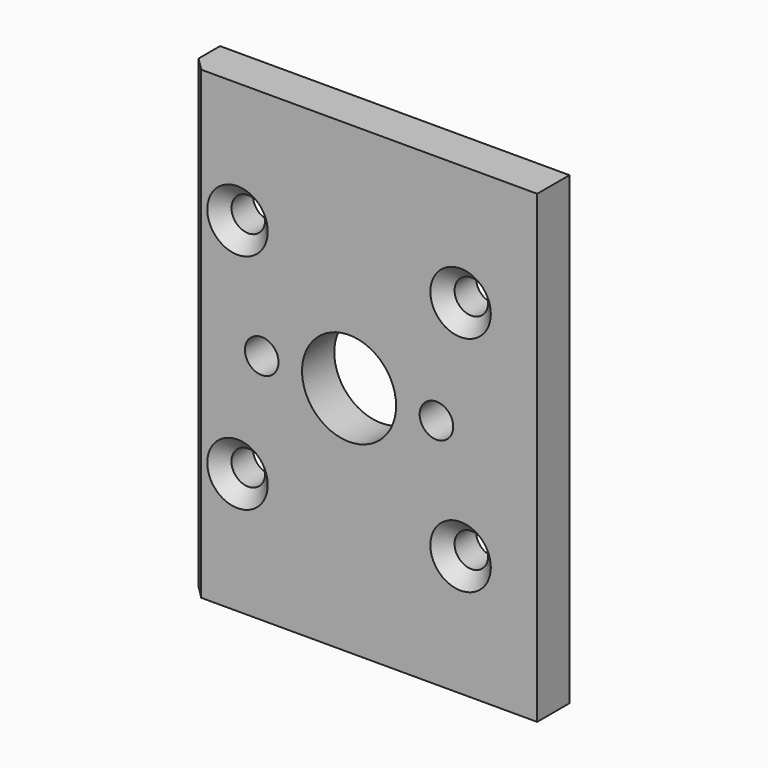
from build123d import *

# Parameters (mm, degrees)
F0_W     = 130
F0_H     = 173
F0_R     = 6.25
F0_R_2   = 17.5
F1_DEPTH = 15
F2_SIZE2 = 5
F2_SIZE  = 5


with BuildPart() as f1:
    # F0 (on Front) → F1 (new body)
    with BuildSketch(Plane.XZ):
        with Locations((5, 0)):
            Rectangle(F0_W, F0_H)
        with Locations((-41.5, -41.5)):
            Circle(F0_R, mode=Mode.SUBTRACT)
        with Locations((41.5, -41.5)):
            Circle(F0_R, mode=Mode.SUBTRACT)
        with Locations((-32.5, 0)):
            Circle(F0_R, mode=Mode.SUBTRACT)
        with Locations((-41.5, 41.5)):
            Circle(F0_R, mode=Mode.SUBTRACT)
        Circle(F0_R_2, mode=Mode.SUBTRACT)
        with Locations((32.5, 0)):
            Circle(F0_R, mode=Mode.SUBTRACT)
        with Locations((41.5, 41.5)):
            Circle(F0_R, mode=Mode.SUBTRACT)
    extrude(amount=F1_DEPTH)

    # F2
    f2_edges = [f1.edges().sort_by_distance(p)[0] for p in [
        (-47.75, -15, 41.5),
        (35.25, -15, 41.5),
        (-47.75, -15, -41.5),
        (35.25, -15, -41.5),
        (-60, -15, 0),
    ]]
    chamfer(f2_edges, length=F2_SIZE, length2=F2_SIZE2)


solid = f1.part
